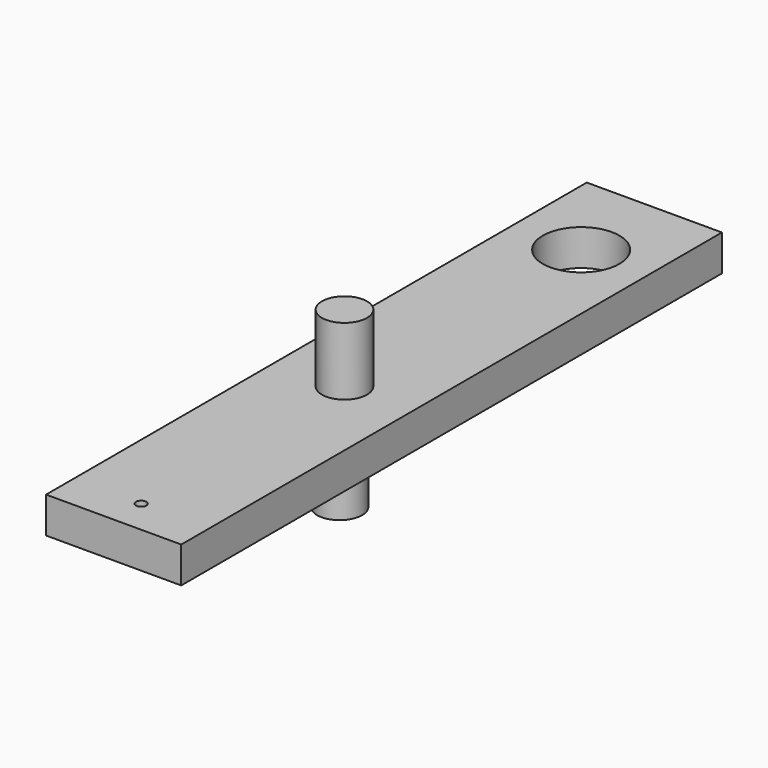
from build123d import *

# Parameters (mm, degrees)
F0_W     = 30
F0_H     = 150
F0_R     = 8.5
F1_DEPTH = 8
F2_R     = 5
F3_DEPTH = 15
F4_R     = 5
F5_DEPTH = 15
F6_R     = 1.15
F7_DEPTH = 25


with BuildPart() as f1:
    # F0 (on Top) → F1 (new body)
    with BuildSketch(Plane.XY):
        with Locations((18.116215, -75)):
            Rectangle(F0_W, F0_H)
        with Locations((18.116215, -20.311708)):
            Circle(F0_R, mode=Mode.SUBTRACT)
    extrude(amount=F1_DEPTH)

    # F2 (on face) → F3 (join)
    with BuildSketch(Plane.XY.offset(8)):
        with Locations((18.116215, -85.969344)):
            Circle(F2_R)
    extrude(amount=F3_DEPTH)

    # F4 (on face) → F5 (join)
    with BuildSketch(Plane(origin=(0, 0, 0), x_dir=(1, 0, 0), z_dir=(0, 0, -1))):
        with Locations((18.116215, 87.31737)):
            Circle(F4_R)
    extrude(amount=F5_DEPTH)

    # F6 (on face) → F7 (cut)
    with BuildSketch(Plane(origin=(0, 0, 0), x_dir=(1, 0, 0), z_dir=(0, 0, -1))):
        with Locations((18.116215, 142.368332)):
            Circle(F6_R)
    extrude(amount=-F7_DEPTH, mode=Mode.SUBTRACT)


solid = f1.part
